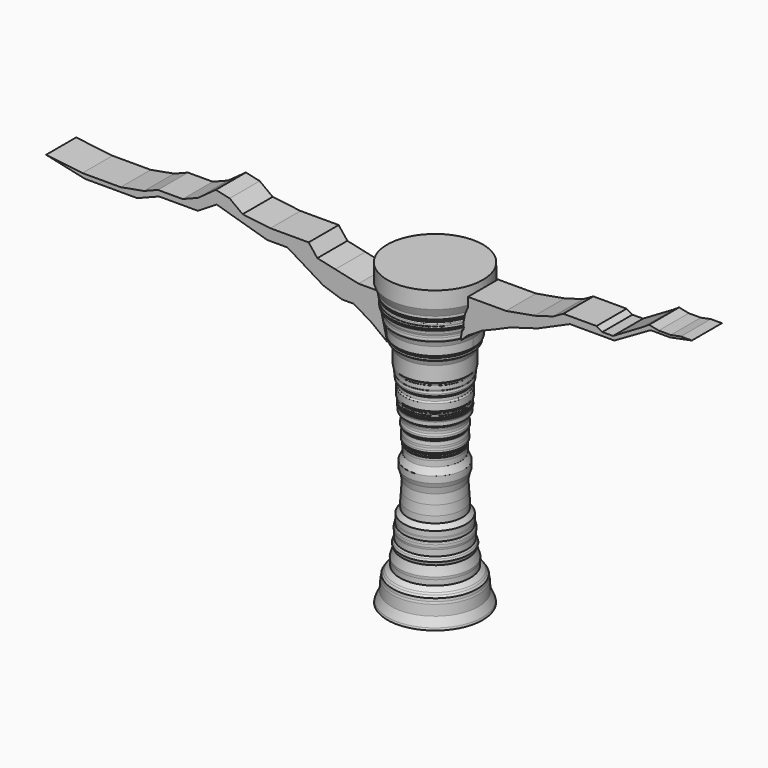
from build123d import *

# Parameters (mm, degrees)
F3_DEPTH = 7.62
F4_DEPTH = 7.62
F6_DEPTH = 7.62
F7_DEPTH = 7.62


with BuildPart() as f1:
    # F0 (on Front) → F1 (revolve)
    with BuildSketch(Plane.XZ):
        Polygon((19.4075405598, 63.2601305842), (0, 63.2601305842), (0, -58.1668019295), (19.3477813154, -58.2192465663), (19.1564206034, -57.3581121862), (17.6255181432, -54.009269923), (17.3384752125, -49.894977361), (17.1471126378, -49.0338467062), (17.0514304191, -47.885671258), (16.4773445576, -47.0245406032), (15.9989371896, -46.3547706604), (14.27667588, -44.8238700628), (14.27667588, -42.7188836038), (14.3723571673, -41.6663885117), (13.3198639378, -38.0305014551), (13.7025881559, -36.6909652948), (13.4155442938, -35.734154284), (12.9855442792, -35.0643843412), (12.9855442792, -33.406086266), (12.9855442792, -32.6571874321), (13.1217073649, -31.9082923234), (13.1217073649, -31.4317196608), (13.1217073649, -30.8189857751), (12.9855442792, -30.3424149752), (12.645136565, -29.9339257181), (12.645136565, -28.7084579468), (12.5949038193, -28.3680502325), (12.5949038193, -26.1623244733), (11.0470512882, -24.2705754936), (11.0470512882, -21.592671983), (10.7943043113, -17.8014729172), (10.541556403, -14.0102598816), (11.0470512882, -11.4827854559), (11.6231963038, -9.7135519609), (11.6231963038, -7.0950151421), (10.387356393, -4.4512669556), (10.387356393, -2.2401250899), (10.4310372844, -1.2354758801), (10.2999955416, -1.0170737514), (10.2999955416, -0.2745072707), (10.8678415418, 0.7301420555), (10.8678415418, 1.6037500463), (10.7804806903, 2.4336776696), (10.7804806903, 3.2636052929), (10.6494389474, 4.5740171336), (10.562078096, 4.9234605394), (11.1299231648, 5.8407490142), (11.0660614446, 6.1465115286), (11.0660614446, 6.8814265542), (10.805782862, 7.4670538306), (10.805782862, 8.5081690922), (11.0009917989, 9.4191450626), (11.1311310902, 10.0698424503), (11.9023593143, 10.7205398381), (11.9023593143, 12.291030027), (12.1160158888, 12.8404321149), (12.1069177985, 13.1754610346), (11.9837522507, 13.2575705647), (12.0447967201, 13.3491382003), (12.085493654, 13.4610533714), (12.1069177985, 13.6136645451), (11.9735775515, 13.8069726527), (11.9735775515, 13.9595847577), (11.9735775515, 14.0511514619), (11.9443992153, 14.1834151), (11.9443992153, 14.3055040389), (11.9443992153, 14.4814653322), (12.0475175467, 14.5743330941), (12.1069177985, 14.6904177964), (12.0475175467, 15.0154558942), (12.0475175467, 15.2976515671), (12.0701473206, 15.3709463775), (12.0701473206, 15.4032940045), (12.1314376593, 15.4645843431), (12.1484631673, 15.5139574781), (12.1825132519, 15.5854625627), (12.2230025008, 15.6655311584), (12.2230025008, 15.8977005631), (12.2230025008, 16.1763057113), (12.4268690124, 16.4549089968), (12.4268690124, 16.6871324182), (12.4268690124, 17.074117437), (12.4268690124, 17.7004449069), (12.4268690124, 18.5702424496), (12.4268690124, 19.2000940442), (12.109676376, 19.8638942093), (12.109676376, 21.2127137929), (12.7168241888, 21.9834689051), (12.8761166707, 22.88268134), (12.7168241888, 23.6681364477), (12.7168241888, 23.8486658782), (12.7168241888, 23.9761006087), (12.8761166707, 24.1353921592), (13.0004156381, 24.402955547), (13.0004156381, 24.5868749917), (13.0004156381, 25.3635719419), (13.0004156381, 25.6146918982), (13.0004156381, 25.7859099656), (13.0004156381, 25.979956612), (13.1895244122, 26.1465702206), (13.1895244122, 26.5149418265), (13.1895244122, 26.8043763936), (13.4258409962, 27.120122686), (13.4258409962, 27.4551417679), (13.4258409962, 28.5400375724), (13.4258409962, 30.2758738399), (13.4258409962, 31.2577709556), (13.4258409962, 33.3209037781), (14.1629353166, 35.3311635554), (14.9000305682, 35.8672328293), (14.9000305682, 36.8053540587), (15.481791459, 37.8104820848), (15.481791459, 38.8826206326), (15.481791459, 39.5653620362), (15.481791459, 41.2172824144), (16.0885546356, 43.2398244739), (16.5941901505, 43.4926413), (16.5941901505, 43.9477153122), (16.4930634201, 44.7567291558), (16.4930634201, 45.4646199942), (16.7964436114, 46.3242009282), (16.8470088392, 47.0320880413), (16.8975722045, 47.2849085927), (17.0998256654, 47.7399788797), (17.6560245454, 47.9927957058), (17.554897815, 48.2961796224), (17.8077146411, 48.7006865442), (17.7065879107, 49.0040667355), (17.6054611802, 49.4591407478), (17.6560245454, 49.7119575739), (17.6560245454, 50.3692813218), (17.4032058567, 50.9254820645), (17.6560245454, 51.0266087949), (17.7065879107, 51.5828058124), (17.6560245454, 51.7344996333), (18.0675182492, 52.1953441203), (18.0675182492, 53.3379428089), (19.4075405598, 56.464664638), (19.4075405598, 58.9213743806), align=None)
    revolve(axis=Axis((0, 0, 2.5466643274), (0, 0, 1)))

    # F2 (on Front) → F3 (join)
    with BuildSketch(Plane.XZ):
        Polygon((19.4348432124, 60.3139139712), (16.3212828338, 43.5561425984), (19.3799454719, 46.5453788638), (22.0902804285, 48.1249466538), (25.0849518925, 50.0626713037), (30.193509534, 52.1765612066), (36.7113277316, 54.9950748682), (47.667786479, 58.2134760916), (60.7992038131, 64.0157312155), (67.8229779005, 64.0157312155), (78.8167193532, 64.0157312155), (88.8943076134, 69.817982614), (93.5230598971, 72.4830234669), (101.4794409275, 72.4830234669), (102.9916214688, 72.7862047773), (110.2524995804, 74.2419585586), (105.7718023658, 74.2419585586), (101.6974786367, 73.425085987), (96.7945381999, 73.425085987), (92.9163619876, 74.2419585586), (90.2590975165, 72.5159421563), (78.2654732466, 65.4777660966), (73.9563927054, 65.4777660966), (71.5863928199, 66.8423101306), (61.9244910777, 66.8423101306), (58.0990575254, 66.8423101306), (54.000377655, 64.549215138), (46.4861318469, 62.363255769), (34.8732061684, 60.3139139712), (25.9927324951, 60.3139139712), align=None)
    extrude(amount=-F3_DEPTH)

    # F4 (add): a face of the model
    f4_faces = [f1.faces().sort_by_distance(p)[0] for p in [
        (44.6195075832, 0, 59.5865619905),
    ]]
    extrude(f4_faces, amount=F4_DEPTH)

    # F5 (on Front) → F6 (join)
    with BuildSketch(Plane.XZ):
        Polygon((-19.9797526002, 38.6517159641), (-13.3469728753, 33.5981659591), (-17.3343233764, 50.5823098785), (-24.9594668824, 50.5823098785), (-34.3600327968, 52.6504357102), (-41.6606366634, 54.2565695941), (-45.1940670609, 58.7413087487), (-52.5327324867, 58.7413087487), (-60.6868080795, 58.7413087487), (-71.9666033983, 60.1003207266), (-77.2258402045, 64.0297379546), (-82.8386992216, 65.2645677328), (-90.0977253914, 60.0225734914), (-96.2929129601, 57.5887490581), (-106.3287846982, 57.5887490581), (-111.9215488434, 55.3915910423), (-121.4346289635, 53.6544341594), (-136.9273662567, 53.6544341594), (-151.6878306866, 55.3915910423), (-135.8955055475, 51.9172772765), (-114.7337704897, 51.9172772765), (-105.8900654316, 55.3915910423), (-90.0977253914, 55.3915910423), (-82.5174078345, 60.1292923093), (-61.9873665273, 54.1282072663), (-53.7753514946, 54.1282072663), (-39.2464026809, 45.2844947577), (-31.6660813987, 42.7577234805), (-26.9283801317, 42.7577234805), align=None)
    extrude(amount=F6_DEPTH)

    # F7 (add): a face of the model
    f7_faces = [f1.faces().sort_by_distance(p)[0] for p in [
        (-22.7335423173, 0, 41.9240680117),
    ]]
    extrude(f7_faces, amount=F7_DEPTH)


solid = f1.part
